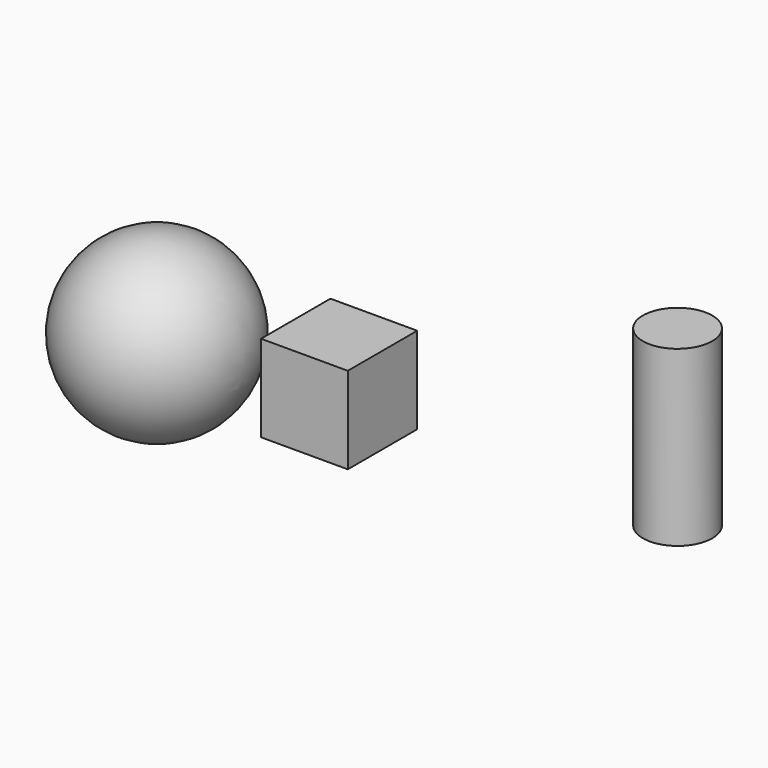
from build123d import *

# Parameters (mm, degrees)
CYLINDER_R     = 2
CYLINDER_DEPTH = 10
BOX_W          = 5
BOX_H          = 5
BOX_DEPTH      = 5


with BuildPart() as cylinder:
    # Cylinder → Cylinder (new body)
    with BuildSketch(Plane(origin=(20, 5, 0), x_dir=(1, 0, 0), z_dir=(0, 0, 1))):
        Circle(CYLINDER_R)
    extrude(amount=CYLINDER_DEPTH)


with BuildPart() as sphere:
    # Sphere → Sphere (revolve)
    with BuildSketch(Plane(origin=(-10, 5, 0), x_dir=(1, 0, 0), z_dir=(0, -1, 0))):
        with BuildLine():
            ThreePointArc((0, -5), (5, 0), (0, 5))
            Line((0, 5), (0, -5))
        make_face()
    revolve(axis=Axis((-10, 5, 0), (0, 0, 1)))


with BuildPart() as cube:
    # Box → Box (new body)
    with BuildSketch(Plane.XY):
        with Locations((2.5, 2.5)):
            Rectangle(BOX_W, BOX_H)
    extrude(amount=BOX_DEPTH)


solid = Compound([cylinder.part, sphere.part, cube.part])
